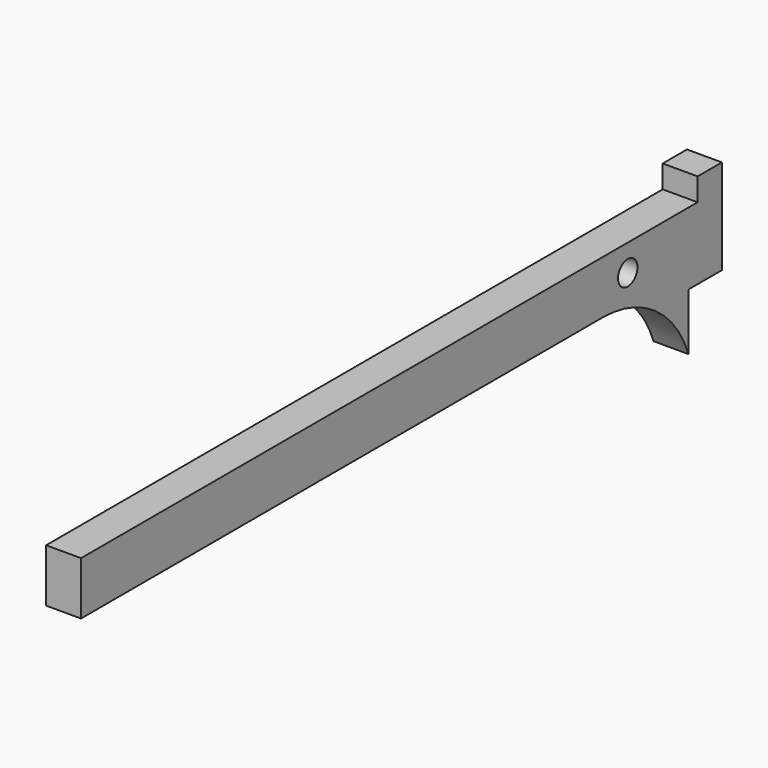
from build123d import *

# Parameters (mm, degrees)
F1_DEPTH = 2.3
F3_D     = 3.2


with BuildPart() as f1:
    # F0 (on Right) → F1 (new body, symmetric)
    with BuildSketch(Plane.YZ):
        with BuildLine():
            ThreePointArc((-14.142136, 10), (-5.481882, 7.247449), (0, 0))
            Line((0, 0), (0, 7.5))
            Line((0, 7.5), (5.5, 7.5))
            Line((5.5, 7.5), (5.5, 20))
            Line((5.5, 20), (1.5, 20))
            Line((1.5, 20), (1.5, 17))
            Line((1.5, 17), (-100, 17))
            Line((-100, 17), (-100, 10))
            Line((-100, 10), (-14.142136, 10))
        make_face()
    extrude(amount=F1_DEPTH, both=True)

    # F3 (through all)
    with Locations(Plane.YZ.offset(2.3)):
        with Locations((-10, 13.5)):
            Hole(F3_D / 2)


solid = f1.part
